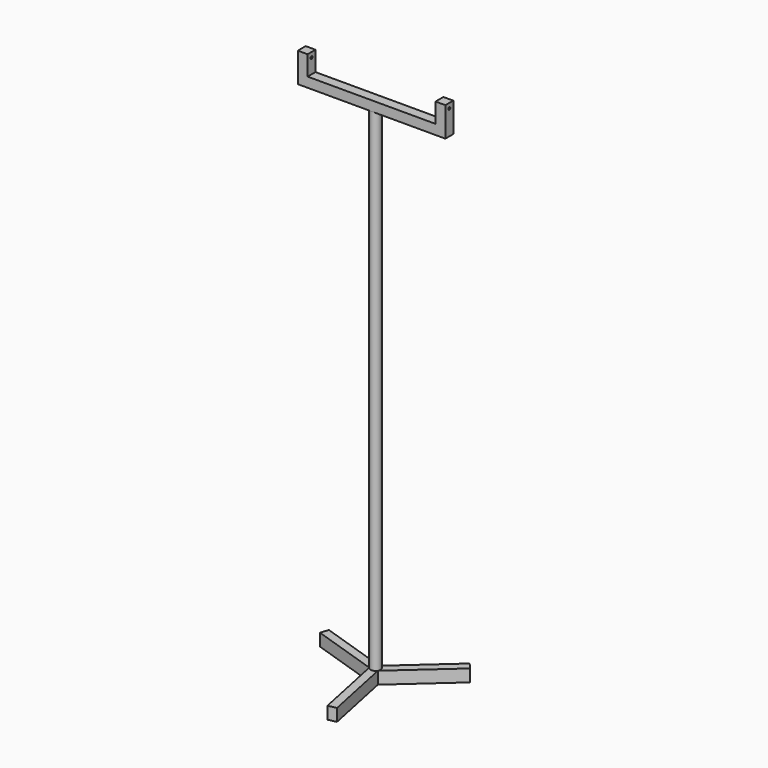
from build123d import *

# Parameters (mm, degrees)
F1_DEPTH = 25
F2_R     = 10
F3_DEPTH = 1000
F4_W     = 300
F4_H     = 20
F5_DEPTH = 20
F6_W     = 20
F6_H     = 20
F7_DEPTH = 40
F8_R     = 2.5
F9_DEPTH = 500


with BuildPart() as f1:
    # F0 (on Top) → F1 (new body)
    with BuildSketch(Plane.XY):
        Polygon((37.9534393111, -145.3128050793), (8.6981086691, -4.9661840892), (118.1933215466, 92.8469560027), (106.8678610383, 105.5250451441), (-0.0482127534, 10.0158751169), (-139.5044833357, 55.9349410156), (-144.8213003494, 39.7877599353), (-8.6498959157, -5.0496910277), (21.3111617891, -148.7818970183), align=None)
        with BuildLine():
            Line((-8.6269494076, -5.0572466738), (-8.6498959157, -5.0496910277))
            Line((-8.6498959157, -5.0496910277), (-8.6602540378, -5))
            ThreePointArc((-8.6602540378, -5), (-8.6436491157, -5.0286509089), (-8.6269494076, -5.0572466738))
        make_face(mode=Mode.SUBTRACT)
        with BuildLine():
            Line((-0.0662293889, 9.999780681), (-0.0482127534, 10.0158751169))
            Line((-0.0482127534, 10.0158751169), (0, 10))
            ThreePointArc((0, 10), (-0.033114876, 9.9999451701), (-0.0662293889, 9.999780681))
        make_face(mode=Mode.SUBTRACT)
        with BuildLine():
            Line((8.6981086691, -4.9661840892), (8.6602540378, -5))
            ThreePointArc((8.6602540378, -5), (8.6767639918, -4.9712942612), (8.6931787965, -4.9425340072))
            Line((8.6931787965, -4.9425340072), (8.6981086691, -4.9661840892))
        make_face(mode=Mode.SUBTRACT)
        with BuildLine():
            Line((0, 10), (-0.0482127534, 10.0158751169))
            Line((-0.0482127534, 10.0158751169), (-0.0662293889, 9.999780681))
            ThreePointArc((-0.0662293889, 9.999780681), (-0.033114876, 9.9999451701), (0, 10))
        make_face()
        with BuildLine():
            Line((-8.6602540378, -5), (-8.6498959157, -5.0496910277))
            Line((-8.6498959157, -5.0496910277), (-8.6269494076, -5.0572466738))
            ThreePointArc((-8.6269494076, -5.0572466738), (-8.6436491157, -5.0286509089), (-8.6602540378, -5))
        make_face()
        with BuildLine():
            ThreePointArc((8.6931787965, -4.9425340072), (8.6767639918, -4.9712942612), (8.6602540378, -5))
            Line((8.6602540378, -5), (8.6981086691, -4.9661840892))
            Line((8.6981086691, -4.9661840892), (8.6931787965, -4.9425340072))
        make_face()
    extrude(amount=F1_DEPTH)


with BuildPart() as f3:
    # F2 (on face) → F3 (new body)
    with BuildSketch(Plane.XY.offset(25)):
        Circle(F2_R)
    extrude(amount=F3_DEPTH)

    # F4 (on face) → F5 (join)
    with BuildSketch(Plane.XY.offset(1025)):
        Rectangle(F4_W, F4_H)
    extrude(amount=F5_DEPTH)

    # F6 (on face) → F7 (join)
    with BuildSketch(Plane.XY.offset(1045)):
        with Locations((-140, 0)):
            Rectangle(F6_W, F6_H)
        with Locations((140, 0)):
            Rectangle(F6_W, F6_H)
    extrude(amount=F7_DEPTH)

    # F8 (on face) → F9 (cut)
    with BuildSketch(Plane(origin=(-150, 0, 0), x_dir=(0, -1, 0), z_dir=(-1, 0, 0))):
        with Locations((0, 1075)):
            Circle(F8_R)
    extrude(amount=-F9_DEPTH, mode=Mode.SUBTRACT)


solid = Compound([f1.part, f3.part])
